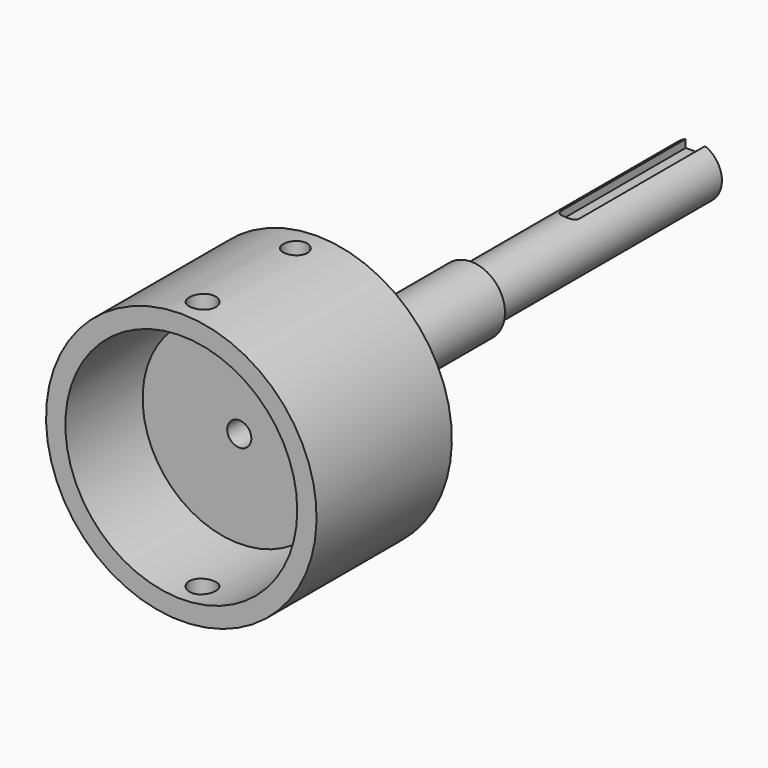
from build123d import *

# Parameters (mm, degrees)
F4_DEPTH  = 2
F5_R      = 24
F6_DEPTH  = 26
F7_R      = 7.5
F8_DEPTH  = 11
F9_R      = 20
F10_DEPTH = 4
F13_D     = 5.5
F14_R     = 2.5
F15_DEPTH = 5
F17_D     = 5
F17_DEPTH = 18
F17_TIP   = 1.5021515476


with BuildPart() as f1:
    # F0 (on Right) → F1 (revolve)
    with BuildSketch(Plane.YZ):
        Polygon((0, 28), (0, 0), (133, 0), (133, 5.5), (75, 5.5), (75, 7), (35, 7), (35, 28), align=None)
    revolve(axis=Axis((0, 66.5, 0), (0, 1, 0)))

    # F3 (on offset) → F4 (cut)
    with BuildSketch(Plane.XY.offset(5.5)):
        with BuildLine():
            Line((0, 99), (0.5, 99))
            ThreePointArc((0.5, 99), (1.5606601718, 99.4393398282), (2, 100.5))
            Line((2, 100.5), (2, 133))
            Line((2, 133), (-2, 133))
            Line((-2, 133), (-2, 101))
            ThreePointArc((-2, 101), (-1.4142135624, 99.5857864376), (0, 99))
        make_face()
    extrude(amount=-F4_DEPTH, mode=Mode.SUBTRACT)

    # F5 (on face) → F6 (cut)
    with BuildSketch(Plane.XZ):
        Circle(F5_R)
    extrude(amount=-F6_DEPTH, mode=Mode.SUBTRACT)

    # F7 (on face) → F8 (join)
    with BuildSketch(Plane.XZ.offset(-26)):
        Circle(F7_R)
    extrude(amount=F8_DEPTH)

    # F9 (on face) → F10 (join)
    with BuildSketch(Plane.XZ.offset(-15)):
        Circle(F9_R)
    extrude(amount=-F10_DEPTH)

    # F13 (through all)
    with Locations(Plane.XY.offset(28)):
        with Locations((0, 5.5)):
            Hole(F13_D / 2)

    # F14 (on offset) → F15 (cut)
    with BuildSketch(Plane.XY.offset(28)):
        with Locations((0, 29.5)):
            Circle(F14_R)
    extrude(amount=-F15_DEPTH, mode=Mode.SUBTRACT)

    # F17
    with Locations(Plane.XZ.offset(-15)):
        with Locations((0, 0)):
            Hole(F17_D / 2, depth=F17_DEPTH)
            with Locations((0, 0, -(F17_DEPTH + F17_TIP / 2))):  # 118° drill point
                Cone(0, F17_D / 2, F17_TIP, mode=Mode.SUBTRACT)


solid = f1.part
